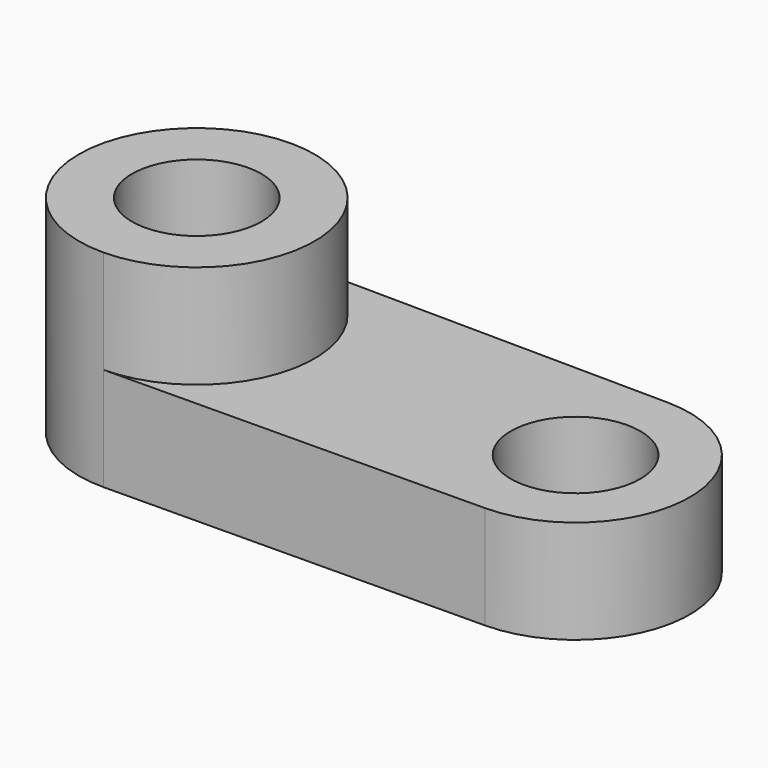
from build123d import *

# Parameters (mm, degrees)
F0_R     = 15.920661
F1_DEPTH = 25.4
F2_DEPTH = 25.4


with BuildPart() as f1:
    # F0 (on Top) → F1 (new body)
    with BuildSketch(Plane.XY):
        with BuildLine():
            Line((46.842293, 28.102132), (-46.308367, 28.973528))
            ThreePointArc((-46.308367, 28.973528), (-17.604609, 0), (-46.308367, -28.973528))
            Line((-46.308367, -28.973528), (46.842293, -28.102132))
            ThreePointArc((46.842293, -28.102132), (74.682768, 0), (46.842293, 28.102132))
        make_face()
        with Locations((46.579406, 0)):
            Circle(F0_R, mode=Mode.SUBTRACT)
        with BuildLine():
            ThreePointArc((-46.308367, -28.973528), (-17.604609, 0), (-46.308367, 28.973528))
            ThreePointArc((-46.308367, 28.973528), (-75.554202, 0), (-46.308367, -28.973528))
        make_face()
        with Locations((-46.579406, 0)):
            Circle(F0_R, mode=Mode.SUBTRACT)
    extrude(amount=-F1_DEPTH)

    # F0 (on Top) → F2 (join)
    with BuildSketch(Plane.XY):
        with BuildLine():
            ThreePointArc((-46.308367, -28.973528), (-17.604609, 0), (-46.308367, 28.973528))
            ThreePointArc((-46.308367, 28.973528), (-75.554202, 0), (-46.308367, -28.973528))
        make_face()
        with Locations((-46.579406, 0)):
            Circle(F0_R, mode=Mode.SUBTRACT)
    extrude(amount=F2_DEPTH)


solid = f1.part
